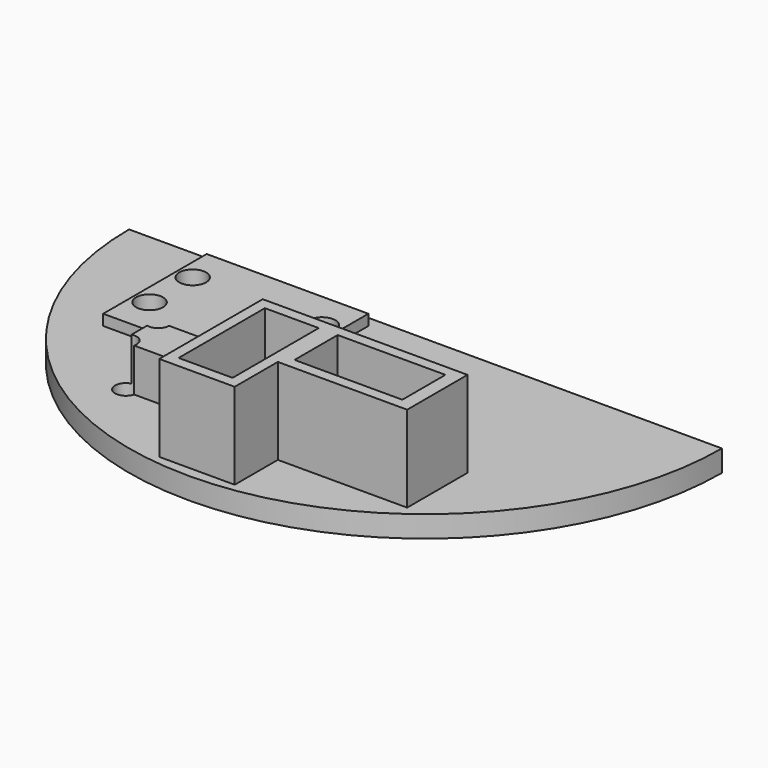
from build123d import *

# Parameters (mm, degrees)
SKETCH009_W      = 5
SKETCH009_H      = 10
SKETCH009_W_2    = 10
SKETCH009_H_2    = 5
EXTRUDE008_DEPTH = 10
SKETCH008_R      = 1
EXTRUDE007_DEPTH = 6
SKETCH007_R      = 1.25
EXTRUDE006_DEPTH = 3
SKETCH004_R      = 1.25
EXTRUDE005_DEPTH = 3
SKETCH005_W      = 6.5
SKETCH005_H      = 4
EXTRUDE004_DEPTH = 4
SKETCH006_W      = 12
SKETCH006_H      = 7
SKETCH006_W_2    = 7
SKETCH006_H_2    = 12
EXTRUDE003_DEPTH = 8
SKETCH003_W      = 15
SKETCH003_H      = 12
EXTRUDE002_DEPTH = 1
EXTRUDE001_DEPTH = 6
EXTRUDE_DEPTH    = 8


with BuildPart() as usb_cuts:
    # Sketch009 → Extrude008 (new body)
    with BuildSketch(Plane.XY.offset(16)):
        with Locations((0, -20.5)):
            Rectangle(SKETCH009_W, SKETCH009_H)
        with Locations((9.25, -18)):
            Rectangle(SKETCH009_W_2, SKETCH009_H_2)
    extrude(amount=-EXTRUDE008_DEPTH)


with BuildPart() as reset_leads:
    # Sketch008 → Extrude007 (new body)
    with BuildSketch(Plane.XY.offset(12)):
        with Locations((-12, -16)):
            Circle(SKETCH008_R)
        with Locations((-6, -19.75)):
            Circle(SKETCH008_R)
        with Locations((-6, -16)):
            Circle(SKETCH008_R)
        with Locations((-12, -19.75)):
            Circle(SKETCH008_R)
    extrude(amount=-EXTRUDE007_DEPTH)


with BuildPart() as momentary_leads:
    # Sketch007 → Extrude006 (new body)
    with BuildSketch(Plane.XY.offset(9)):
        with Locations((-18, -9.5)):
            Circle(SKETCH007_R)
        with Locations((-18, -4.5)):
            Circle(SKETCH007_R)
        with Locations((-6, -9.5)):
            Circle(SKETCH007_R)
        with Locations((-6, -4.5)):
            Circle(SKETCH007_R)
    extrude(amount=-EXTRUDE006_DEPTH)


with BuildPart() as obj1:
    # Sketch004 → Extrude005 (new body)
    with BuildSketch(Plane.XY.offset(8)):
        with Locations((2, -10.25)):
            Circle(SKETCH004_R)
        with Locations((2, -5)):
            Circle(SKETCH004_R)
    extrude(amount=-EXTRUDE005_DEPTH)


with BuildPart() as obj2:
    # Sketch005 → Extrude004 (new body)
    with BuildSketch(Plane.XY.offset(8)):
        with Locations((-9, -18)):
            Rectangle(SKETCH005_W, SKETCH005_H)
    extrude(amount=EXTRUDE004_DEPTH)


with BuildPart() as usb_ports001:
    # Sketch006 → Extrude003 (new body)
    with BuildSketch(Plane.XY.offset(8)):
        with Locations((9.5, -18)):
            Rectangle(SKETCH006_W, SKETCH006_H)
        with Locations((0, -20.5)):
            Rectangle(SKETCH006_W_2, SKETCH006_H_2)
    extrude(amount=EXTRUDE003_DEPTH)


with BuildPart() as momentary_button:
    # Sketch003 → Extrude002 (new body)
    with BuildSketch(Plane.XY.offset(8)):
        with Locations((-12, -7)):
            Rectangle(SKETCH003_W, SKETCH003_H)
    extrude(amount=EXTRUDE002_DEPTH)


with BuildPart() as body_cut:
    # Sketch002 → Extrude001 (new body)
    with BuildSketch(Plane.XY):
        with BuildLine():
            ThreePointArc((-27.5, 0), (0, -27.5), (27.5, 0))
            Line((-27.5, 0), (27.5, 0))
        make_face()
    extrude(amount=EXTRUDE001_DEPTH)


with BuildPart() as cut004:
    # Sketch001 → Extrude (new body)
    with BuildSketch(Plane.XY):
        with BuildLine():
            ThreePointArc((-27.5, 0), (0, -27.5), (27.5, 0))
            Line((-27.5, 0), (27.5, 0))
        make_face()
    extrude(amount=EXTRUDE_DEPTH)

    # Cut: cut Body Cut
    add(body_cut.part, mode=Mode.SUBTRACT)

    # Fusion: union Momentary Button
    add(momentary_button.part)

    # Fusion001: union USB Ports001
    add(usb_ports001.part)

    # Fusion002: union obj2
    add(obj2.part)

    # Cut001: cut obj1
    add(obj1.part, mode=Mode.SUBTRACT)

    # Cut002: cut momentary Leads
    add(momentary_leads.part, mode=Mode.SUBTRACT)

    # Cut003: cut Reset Leads
    add(reset_leads.part, mode=Mode.SUBTRACT)

    # Cut004: cut USB Cuts
    add(usb_cuts.part, mode=Mode.SUBTRACT)


solid = cut004.part
